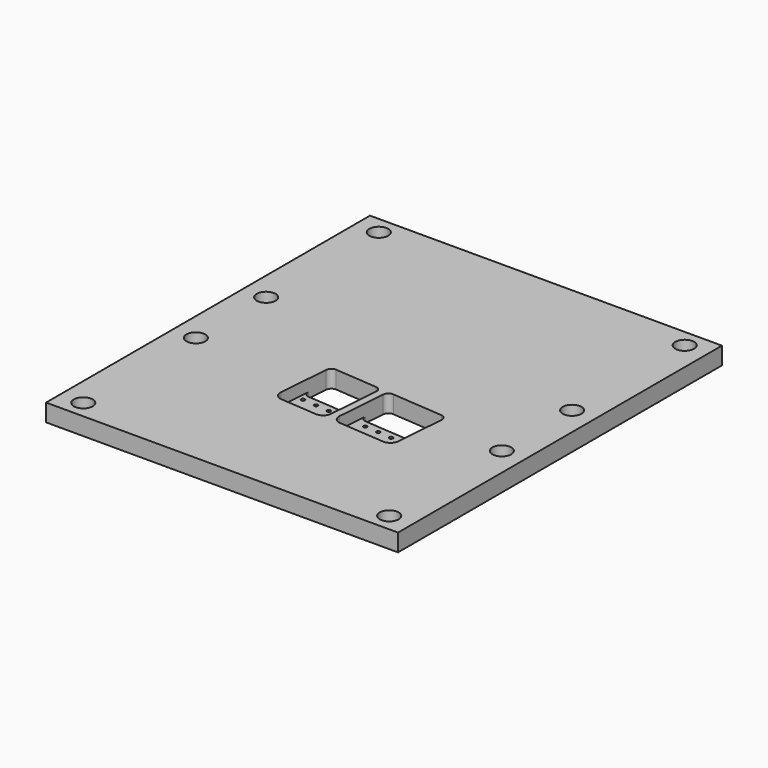
from build123d import *

# Parameters (mm, degrees)
F0_W     = 127
F0_H     = 146.1
F0_R     = 3.4
F0_R_2   = 0.65
F1_DEPTH = 6.3
F3_DEPTH = 4.25


with BuildPart() as f1:
    # F0 (on Top) → F1 (new body)
    with BuildSketch(Plane.XY):
        Rectangle(F0_W, F0_H)
        with Locations((-55.2, -66.65)):
            Circle(F0_R, mode=Mode.SUBTRACT)
        with Locations((-55.2, -15.85)):
            Circle(F0_R, mode=Mode.SUBTRACT)
        with Locations((-13.15, -20.1)):
            Circle(F0_R_2, mode=Mode.SUBTRACT)
        with Locations((-8.1648030536, -20.4844624894)):
            Circle(F0_R_2, mode=Mode.SUBTRACT)
        with Locations((-3.1796061072, -20.8689249789)):
            Circle(F0_R_2, mode=Mode.SUBTRACT)
        with BuildLine():
            Line((2.2050045302, -18.877064016), (-13.0496981258, -17.7006087983))
            ThreePointArc((-13.0496981258, -17.7006087983), (-14.4146821699, -17.007814233), (-14.8899919086, -15.552745024))
            Line((-14.8899919086, -15.552745024), (-14.3209874242, -8.1746535434))
            ThreePointArc((-14.3209874242, -8.1746535434), (-13.6281928588, -6.8096694992), (-12.1731236499, -6.3343597606))
            Line((-12.1731236499, -6.3343597606), (3.0815790061, -7.5108149783))
            ThreePointArc((3.0815790061, -7.5108149783), (4.4465630502, -8.2036095436), (4.9218727888, -9.6586787526))
            Line((4.9218727888, -9.6586787526), (4.3528683045, -17.0367702332))
            ThreePointArc((4.3528683045, -17.0367702332), (3.6600737391, -18.4017542774), (2.2050045302, -18.877064016))
        make_face(mode=Mode.SUBTRACT)
        with Locations((55.2, -66.65)):
            Circle(F0_R, mode=Mode.SUBTRACT)
        with Locations((1.8055908391, -21.2533874683)):
            Circle(F0_R_2, mode=Mode.SUBTRACT)
        with Locations((10.7944091609, -21.9466125317)):
            Circle(F0_R_2, mode=Mode.SUBTRACT)
        with Locations((15.7796061072, -22.3310750211)):
            Circle(F0_R_2, mode=Mode.SUBTRACT)
        with Locations((20.7648030536, -22.7155375106)):
            Circle(F0_R_2, mode=Mode.SUBTRACT)
        with Locations((25.75, -23.1)):
            Circle(F0_R_2, mode=Mode.SUBTRACT)
        with BuildLine():
            Line((7.0448746555, -17.2443799775), (7.6138791399, -9.8662884969))
            ThreePointArc((7.6138791399, -9.8662884969), (8.3066737053, -8.5013044528), (9.7617429142, -8.0259947141))
            Line((9.7617429142, -8.0259947141), (28.3066755548, -9.4561951748))
            ThreePointArc((28.3066755548, -9.4561951748), (29.6716595989, -10.1489897402), (30.1469693375, -11.6040589491))
            Line((30.1469693375, -11.6040589491), (29.5779648532, -18.9821504298))
            ThreePointArc((29.5779648532, -18.9821504298), (28.8851702878, -20.3471344739), (27.4301010788, -20.8224442126))
            Line((27.4301010788, -20.8224442126), (8.8851684383, -19.3922437519))
            ThreePointArc((8.8851684383, -19.3922437519), (7.5201843942, -18.6994491865), (7.0448746555, -17.2443799775))
        make_face(mode=Mode.SUBTRACT)
        with Locations((55.2, -15.85)):
            Circle(F0_R, mode=Mode.SUBTRACT)
        with Locations((-55.2, 15.85)):
            Circle(F0_R, mode=Mode.SUBTRACT)
        with Locations((-55.2, 66.65)):
            Circle(F0_R, mode=Mode.SUBTRACT)
        with Locations((55.2, 15.85)):
            Circle(F0_R, mode=Mode.SUBTRACT)
        with Locations((55.2, 66.65)):
            Circle(F0_R, mode=Mode.SUBTRACT)
    extrude(amount=F1_DEPTH)

    # F2 (on face) → F3 (cut)
    with BuildSketch(Plane.XY.offset(6.3)):
        with BuildLine():
            Line((4.46495922, -15.5833246955), (-14.777900993, -14.0992994863))
            Line((-14.777900993, -14.0992994863), (-15.7588771347, -26.8192901228))
            ThreePointArc((-15.7588771347, -26.8192901228), (-15.0459125267, -29.0018939363), (-12.9984364605, -30.0410857843))
            Line((-12.9984364605, -30.0410857843), (0.2621874169, -31.0637560062))
            ThreePointArc((0.2621874169, -31.0637560062), (2.4447912303, -30.3507913982), (3.4839830784, -28.3033153321))
            Line((3.4839830784, -28.3033153321), (4.46495922, -15.5833246955))
        make_face()
        with BuildLine():
            Line((29.6987558394, -17.4158939751), (7.1656656418, -15.6781235228))
            Line((7.1656656418, -15.6781235228), (6.2298141779, -27.8129975039))
            ThreePointArc((6.2298141779, -27.8129975039), (6.9427787859, -29.9956013173), (8.9902548521, -31.0347931654))
            Line((8.9902548521, -31.0347931654), (25.5411087141, -32.3112086303))
            ThreePointArc((25.5411087141, -32.3112086303), (27.7237125275, -31.5982440223), (28.7629043756, -29.5507679561))
            Line((28.7629043756, -29.5507679561), (29.6987558394, -17.4158939751))
        make_face()
    extrude(amount=-F3_DEPTH, mode=Mode.SUBTRACT)


solid = f1.part
